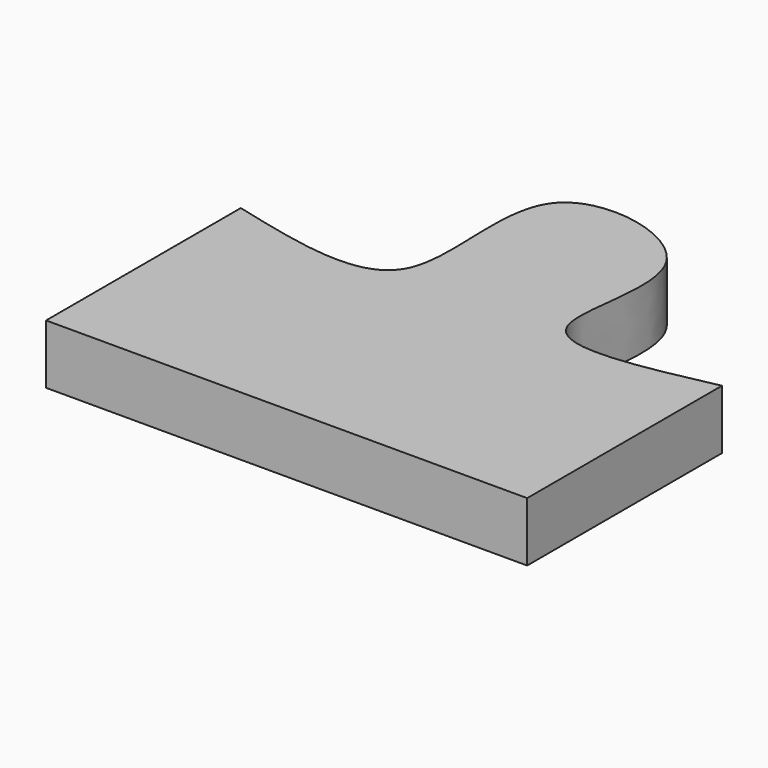
from build123d import *

# Parameters (mm, degrees)
F1_DEPTH = 25.4
F2_DEPTH = 20.32


with BuildPart() as f1:
    # F0 (on Top) → F1 (new body)
    with BuildSketch(Plane.XY):
        with BuildLine():
            Line((0, 20.8346545696), (0, 0))
            Line((0, 0), (41.1761775613, 0))
            Line((41.1761775613, 0), (41.1761775613, 20.8346545696))
            add(Edge.make_bspline(
                [(41.1761775613, 20.8346545696), (35.2239015074, 19.5644516694), (23.7128823333, 17.1080249502), (31.8008218075, 34.5254715662), (11.0821385924, 38.7573372867), (18.3609350032, 16.1398968216), (6.1280573173, 19.2677548139), (0, 20.8346545696)],
                knots=[0, 0, 0, 0, 0.2038046259, 0.3941347706, 0.5820152857, 0.7906106517, 1, 1, 1, 1], degree=3))
        make_face()
    extrude(amount=F1_DEPTH)

    # F2 (cut): a face of the model
    f2_faces = [f1.faces().sort_by_distance(p)[0] for p in [
        (20.7225782164, 13.2953310401, 25.4),
    ]]
    extrude(f2_faces, amount=-F2_DEPTH, mode=Mode.SUBTRACT)


solid = f1.part
